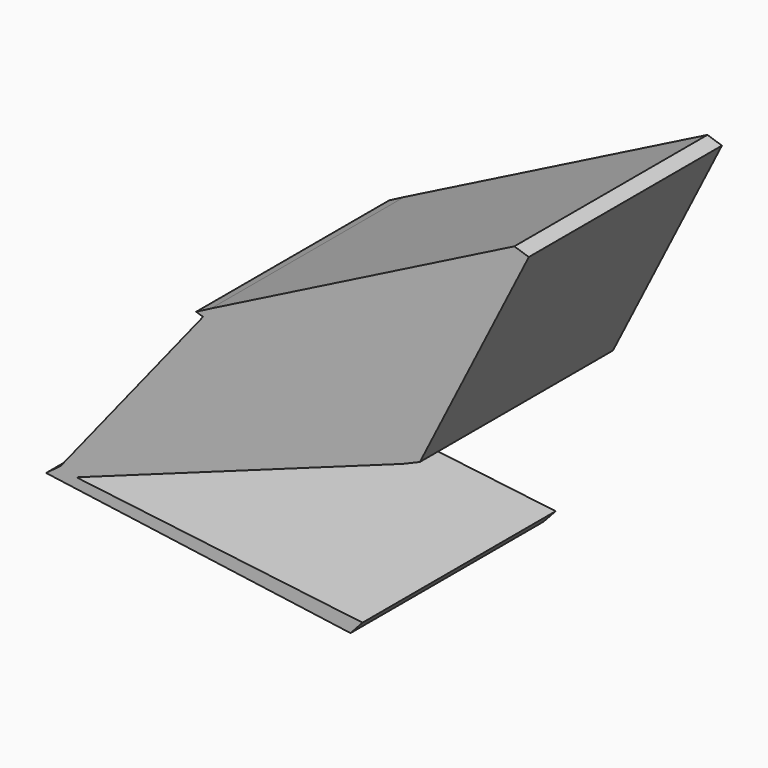
from build123d import *

# Parameters (mm, degrees)
F1_DEPTH = 25.4


with BuildPart() as f1:
    # F0 (on Front) → F1 (new body)
    with BuildSketch(Plane.XZ):
        Polygon((-25.8951456973, -13.4633452844), (-57.8072406352, -29.5979231596), (-53.9003351302, -30.8551576172), (-24.367749691, -13.9548582956), align=None)
        Polygon((-58.6458170369, -30.6438290405), (-57.8072406352, -29.5979231596), (-59.37179178, -30.4090492427), align=None)
        Polygon((-53.9003351302, -30.8551576172), (-57.8072406352, -29.5979231596), (-58.6458170369, -30.6438290405), (-55.3778592124, -31.7006846468), align=None)
        Polygon((-24.367749691, -13.9548582956), (-53.9003351302, -30.8551576172), (-35.8312614262, -36.6697497666), align=None)
        Polygon((-35.8312614262, -36.6697497666), (-53.9003351302, -30.8551576172), (-55.3778592124, -31.7006846468), (-37.6411564648, -37.4367237091), align=None)
        Polygon((-55.3778592124, -31.7006846468), (-58.6458170369, -30.6438290405), (-73.6147388816, -49.3136644363), (-71.9702057047, -49.8428719572), align=None)
        Polygon((-37.6411564648, -37.4367237091), (-55.3778592124, -31.7006846468), (-71.9702057047, -49.8428719572), align=None)
        Polygon((-71.9702057047, -49.8428719572), (-73.6147388816, -49.3136644363), (-75.165912509, -50.4807010293), (-43.1287082946, -54.896680256), (-41.866235435, -53.5162836313), align=None)
    extrude(amount=F1_DEPTH)


solid = f1.part
